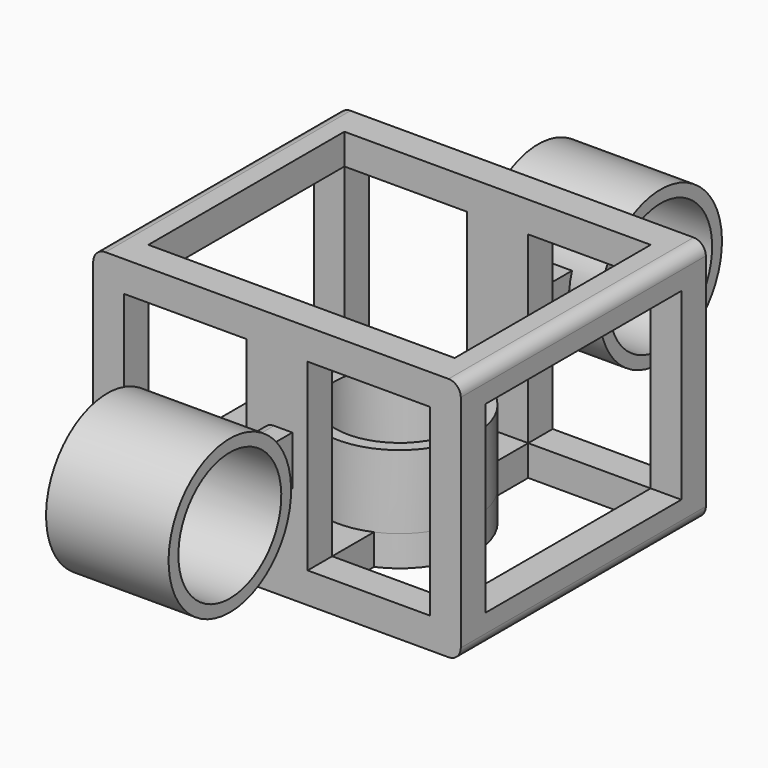
from build123d import *

# Parameters (mm, degrees)
SKETCH_W          = 60
SKETCH_H          = 40
SKETCH_W_2        = 50
SKETCH_H_2        = 30
PAD_DEPTH         = 5
SKETCH001_W       = 5
SKETCH001_H       = 5
PAD001_DEPTH      = 40
SKETCH002_W       = 60
SKETCH002_H       = 40
SKETCH002_W_2     = 50
SKETCH002_H_2     = 30
PAD002_DEPTH      = 5
SKETCH003_W       = 10
SKETCH003_H       = 5
PAD003_DEPTH      = 30
SKETCH004_W       = 5
SKETCH004_H       = 8
PAD004_DEPTH      = 10
SKETCH005_R       = 12.5
PAD005_DEPTH      = 10
PAD005_DEPTH_BACK = 10
SKETCH006_R       = 10.5
POCKET_DEPTH      = 42.501
SKETCH007_W       = 5
SKETCH007_H       = 8
PAD006_DEPTH      = 10
SKETCH008_R       = 12.5
PAD007_DEPTH      = 10
PAD007_DEPTH_BACK = 10
SKETCH009_R       = 10.5
POCKET001_DEPTH   = 42.570779
SKETCH010_W       = 10
SKETCH010_H       = 5
PAD008_DEPTH      = 40
SKETCH011_R       = 12.5
PAD009_DEPTH      = 12
PAD009_DEPTH_BACK = 5
SKETCH012_R       = 10.5
POCKET002_DEPTH   = 17.001
FILLET_R          = 2
FILLET001_R       = 2
FILLET002_R       = 2
FILLET003_R       = 2
FILLET004_R       = 2
FILLET005_R       = 2
FILLET006_R       = 2
FILLET007_R       = 2


with BuildPart() as part:
    # Sketch → Pad (new body)
    with BuildSketch(Plane.XZ):
        with Locations((0, 20)):
            Rectangle(SKETCH_W, SKETCH_H)
        with Locations((0, 20)):
            Rectangle(SKETCH_W_2, SKETCH_H_2, mode=Mode.SUBTRACT)
    extrude(amount=PAD_DEPTH)

    # Sketch001 (on Face10 of Pad) → Pad001 (join)
    with BuildSketch(Plane.XZ.offset(5)):
        with Locations((-27.5, 37.5)):
            Rectangle(SKETCH001_W, SKETCH001_H)
        with Locations((27.5, 37.5)):
            Rectangle(SKETCH001_W, SKETCH001_H)
        with Locations((27.5, 2.5)):
            Rectangle(SKETCH001_W, SKETCH001_H)
        with Locations((-27.5, 2.5)):
            Rectangle(SKETCH001_W, SKETCH001_H)
    extrude(amount=PAD001_DEPTH)

    # Sketch002 (on Face10 of Pad001) → Pad002 (join)
    with BuildSketch(Plane.XZ.offset(45)):
        with Locations((0, 20)):
            Rectangle(SKETCH002_W, SKETCH002_H)
        with Locations((0, 20)):
            Rectangle(SKETCH002_W_2, SKETCH002_H_2, mode=Mode.SUBTRACT)
    extrude(amount=PAD002_DEPTH)

    # Sketch003 (on Face26 of Pad002) → Pad003 (join)
    with BuildSketch(Plane(origin=(0, 0, 5), x_dir=(-1, 0, 0), z_dir=(0, 0, 1))):
        with Locations((0, 47.5)):
            Rectangle(SKETCH003_W, SKETCH003_H)
        with Locations((0, 2.5)):
            Rectangle(SKETCH003_W, SKETCH003_H)
    extrude(amount=PAD003_DEPTH)

    # Sketch004 (on Face36 of Pad003) → Pad004 (join)
    with BuildSketch(Plane.XZ.offset(50)):
        with Locations((0, 20)):
            Rectangle(SKETCH004_W, SKETCH004_H)
    extrude(amount=PAD004_DEPTH)

    # Sketch005 (on Face19 of Pad004) → Pad005 (join, two sides)
    with BuildSketch(Plane(origin=(-2.5, 0, 0), x_dir=(0, 0, -1), z_dir=(-1, 0, 0))) as pad005_sk:
        with Locations((-20, 69)):
            Circle(SKETCH005_R)
    extrude(amount=PAD005_DEPTH)
    extrude(pad005_sk.sketch, amount=-PAD005_DEPTH_BACK)

    # Sketch006 (on Face43 of Pad005) → Pocket (cut, through all)
    with BuildSketch(Plane(origin=(-12.5, 0, 0), x_dir=(0, 0, -1), z_dir=(-1, 0, 0))):
        with Locations((-20, 69)):
            Circle(SKETCH006_R)
        with Locations((-20, 69)):
            Circle(SKETCH006_R)
    extrude(amount=-POCKET_DEPTH, mode=Mode.SUBTRACT)

    # Sketch007 (on Face26 of Pocket) → Pad006 (join)
    with BuildSketch(Plane(origin=(0, 0, 0), x_dir=(1, 0, 0), z_dir=(0, 1, 0))):
        with Locations((-0.069779, -20)):
            Rectangle(SKETCH007_W, SKETCH007_H)
    extrude(amount=PAD006_DEPTH)

    # Sketch008 (on Face42 of Pad006) → Pad007 (join, two sides)
    with BuildSketch(Plane(origin=(-2.569779, 0, 0), x_dir=(0, 0, -1), z_dir=(-1, 0, 0))) as pad007_sk:
        with Locations((-20, -19)):
            Circle(SKETCH008_R)
    extrude(amount=PAD007_DEPTH)
    extrude(pad007_sk.sketch, amount=-PAD007_DEPTH_BACK)

    # Sketch009 (on Face51 of Pad007) → Pocket001 (cut, through all)
    with BuildSketch(Plane(origin=(-12.569779, 0, 0), x_dir=(0, 0, -1), z_dir=(-1, 0, 0))):
        with Locations((-20, -19)):
            Circle(SKETCH009_R)
    extrude(amount=-POCKET001_DEPTH, mode=Mode.SUBTRACT)

    # Sketch010 (on Face2 of Pocket001) → Pad008 (join)
    with BuildSketch(Plane(origin=(0, -45, 0), x_dir=(1, 0, 0), z_dir=(0, 1, 0))):
        with Locations((0, -2.5)):
            Rectangle(SKETCH010_W, SKETCH010_H)
    extrude(amount=PAD008_DEPTH)

    # Sketch011 (on Face22 of Pad008) → Pad009 (join, two sides)
    with BuildSketch(Plane(origin=(0, 0, 5), x_dir=(-1, 0, 0), z_dir=(0, 0, 1))) as pad009_sk:
        with Locations((0, 25)):
            Circle(SKETCH011_R)
    extrude(amount=PAD009_DEPTH)
    extrude(pad009_sk.sketch, amount=-PAD009_DEPTH_BACK)

    # Sketch012 (on Face44 of Pad009) → Pocket002 (cut, through all)
    with BuildSketch(Plane(origin=(0, 0, 17), x_dir=(-1, 0, 0), z_dir=(0, 0, 1))):
        with Locations((0, 25)):
            Circle(SKETCH012_R)
    extrude(amount=-POCKET002_DEPTH, mode=Mode.SUBTRACT)

    # Fillet
    fillet_edges = [part.edges().sort_by_distance(p)[0] for p in [
        (-30, -25, 40),
    ]]
    fillet(fillet_edges, radius=FILLET_R)

    # Fillet001
    fillet001_edges = [part.edges().sort_by_distance(p)[0] for p in [
        (-30, -25, 0),
    ]]
    fillet(fillet001_edges, radius=FILLET001_R)

    # Fillet002
    fillet002_edges = [part.edges().sort_by_distance(p)[0] for p in [
        (30, -25, 40),
    ]]
    fillet(fillet002_edges, radius=FILLET002_R)

    # Fillet003
    fillet003_edges = [part.edges().sort_by_distance(p)[0] for p in [
        (30, -25, 0),
    ]]
    fillet(fillet003_edges, radius=FILLET003_R)

    # Fillet004
    fillet004_edges = [part.edges().sort_by_distance(p)[0] for p in [
        (-2.5, -53.57864, 24),
    ]]
    fillet(fillet004_edges, radius=FILLET004_R)

    # Fillet005
    fillet005_edges = [part.edges().sort_by_distance(p)[0] for p in [
        (-2.5, -53.57864, 16),
    ]]
    fillet(fillet005_edges, radius=FILLET005_R)

    # Fillet006
    fillet006_edges = [part.edges().sort_by_distance(p)[0] for p in [
        (-2.569779, 3.57864, 24),
    ]]
    fillet(fillet006_edges, radius=FILLET006_R)

    # Fillet007
    fillet007_edges = [part.edges().sort_by_distance(p)[0] for p in [
        (-2.569779, 3.57864, 16),
    ]]
    fillet(fillet007_edges, radius=FILLET007_R)


solid = part.part
